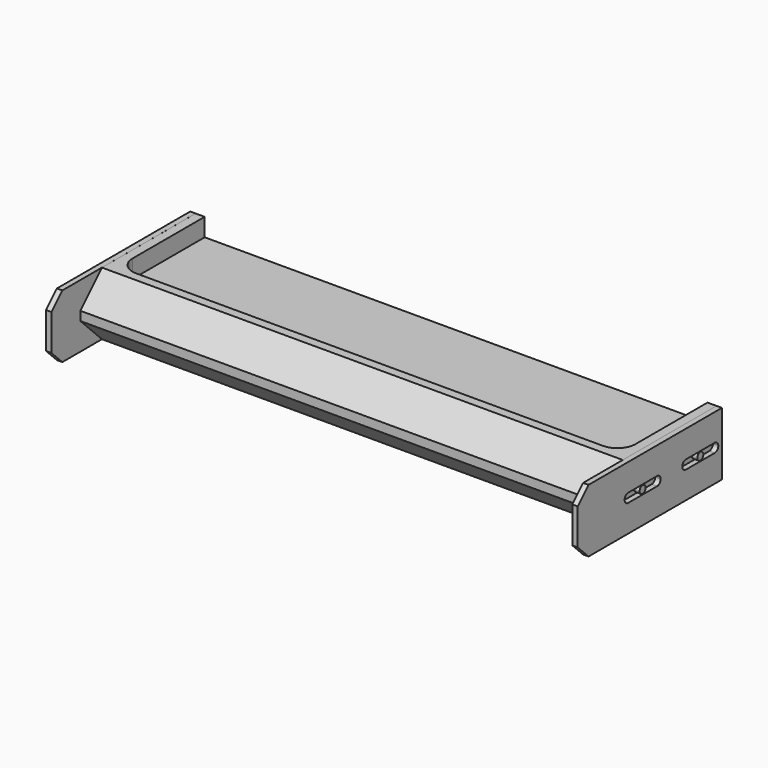
from build123d import *

# Parameters (mm, degrees)
F1_DEPTH      = 17.5
F1_DEPTH_BACK = 17.5
F2_SIZE       = 15
F3_SIZE       = 7.5
F5_W          = 3
F5_H          = 92.5
F6_DEPTH      = 0.01
F7_W          = 3
F7_H          = 92.5
F8_DEPTH      = 0.01
F4_R          = 2.1
F9_DEPTH      = 3
F11_DEPTH     = 10
F13_DEPTH     = 10


with BuildPart() as f1:
    # F0 (on Top) → F1 (new body, two sides)
    with BuildSketch(Plane.XY) as f1_sk:
        Polygon((147.5, -50), (147.5, 50), (-147.5, 50), (-147.5, -50), (-144.5, -50), (-144.5, -30), (144.5, -30), (144.5, -50), align=None)
    extrude(amount=F1_DEPTH)
    extrude(f1_sk.sketch, amount=-F1_DEPTH_BACK)

    # F2
    f2_edges = [f1.edges().sort_by_distance(p)[0] for p in [
        (0, -30, 17.5),
        (0, -30, -17.5),
    ]]
    chamfer(f2_edges, length=F2_SIZE)

    # F3
    f3_edges = [f1.edges().sort_by_distance(p)[0] for p in [
        (146, -50, 17.5),
        (146, -50, -17.5),
        (-146, -50, 17.5),
        (-146, -50, -17.5),
    ]]
    chamfer(f3_edges, length=F3_SIZE)

    # F5 (on face) → F6 (join)
    with BuildSketch(Plane.XY.offset(17.5)):
        with Locations((-146, 3.75)):
            Rectangle(F5_W, F5_H)
        with Locations((146, 3.75)):
            Rectangle(F5_W, F5_H)
    extrude(amount=F6_DEPTH)

    # F7 (on face) → F8 (join)
    with BuildSketch(Plane(origin=(0, 0, -17.5), x_dir=(1, 0, 0), z_dir=(0, 0, -1))):
        with Locations((-146, -3.75)):
            Rectangle(F7_W, F7_H)
        with Locations((146, -3.75)):
            Rectangle(F7_W, F7_H)
    extrude(amount=F8_DEPTH)

    # F4 (on face) → F9 (cut)
    with BuildSketch(Plane.YZ.offset(147.5)):
        with BuildLine():
            ThreePointArc((47.5, 0), (46.767767, 1.767767), (45, 2.5))
            Line((45, 2.5), (25, 2.5))
            ThreePointArc((25, 2.5), (23.232233, 1.767767), (22.5, 0))
            ThreePointArc((22.5, 0), (23.232233, -1.767767), (25, -2.5))
            Line((25, -2.5), (45, -2.5))
            ThreePointArc((45, -2.5), (46.767767, -1.767767), (47.5, 0))
        make_face()
        with Locations((35, 0)):
            Circle(F4_R, mode=Mode.SUBTRACT)
        with BuildLine():
            ThreePointArc((7.5, 0), (6.767767, 1.767767), (5, 2.5))
            Line((5, 2.5), (-15, 2.5))
            ThreePointArc((-15, 2.5), (-16.767767, 1.767767), (-17.5, 0))
            ThreePointArc((-17.5, 0), (-16.767767, -1.767767), (-15, -2.5))
            Line((-15, -2.5), (5, -2.5))
            ThreePointArc((5, -2.5), (6.767767, -1.767767), (7.5, 0))
        make_face()
        with Locations((-5, 0)):
            Circle(F4_R, mode=Mode.SUBTRACT)
    extrude(amount=-F9_DEPTH, mode=Mode.SUBTRACT)

    # F10 (on face) → F11 (cut)
    with BuildSketch(Plane.XY.offset(17.5)):
        with BuildLine():
            Line((139.5, 50), (-139.5, 50))
            Line((-139.5, 50), (-139.5, 0))
            ThreePointArc((-139.5, 0), (-136.571068, -7.071068), (-129.5, -10))
            Line((-129.5, -10), (129.5, -10))
            ThreePointArc((129.5, -10), (136.571068, -7.071068), (139.5, 0))
            Line((139.5, 0), (139.5, 50))
        make_face()
    extrude(amount=-F11_DEPTH, mode=Mode.SUBTRACT)

    # F12 (on face) → F13 (cut)
    with BuildSketch(Plane(origin=(0, 0, -17.5), x_dir=(1, 0, 0), z_dir=(0, 0, -1))):
        with BuildLine():
            Line((139.5, -50), (139.5, 0))
            ThreePointArc((139.5, 0), (136.571068, 7.071068), (129.5, 10))
            Line((129.5, 10), (-129.5, 10))
            ThreePointArc((-129.5, 10), (-136.571068, 7.071068), (-139.5, 0))
            Line((-139.5, 0), (-139.5, -50))
            Line((-139.5, -50), (139.5, -50))
        make_face()
    extrude(amount=-F13_DEPTH, mode=Mode.SUBTRACT)


solid = f1.part
